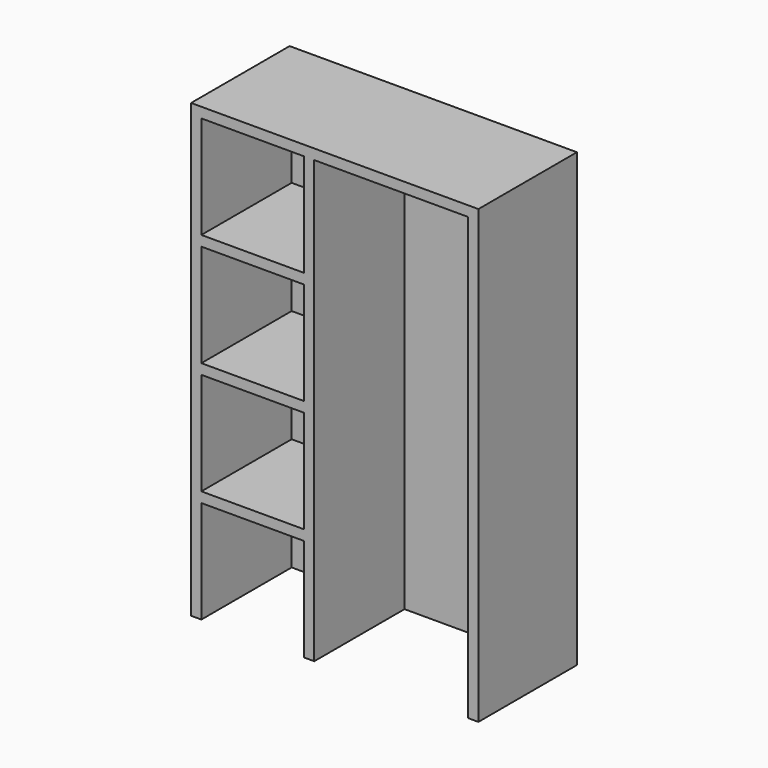
from build123d import *

# Parameters (mm, degrees)
BOX3570_W        = 750
BOX3570_H        = 550
BOX3570_DEPTH    = 2150
BOX3572_W        = 500
BOX3572_H        = 550
BOX3572_DEPTH    = 500
ARRAY290_Z_COUNT = 4
ARRAY290_Z_PITCH = 550
BOX3571_W        = 1400
BOX3571_H        = 600
BOX3571_DEPTH    = 2200


with BuildPart() as box3570:
    # Box3570 → Box3570 (new body)
    with BuildSketch(Plane(origin=(8100, -300, 0), x_dir=(1, 0, 0), z_dir=(0, 0, 1))):
        with Locations((375, 275)):
            Rectangle(BOX3570_W, BOX3570_H)
    extrude(amount=BOX3570_DEPTH)


with BuildPart() as array290:
    # Box3572 → Box3572 (new body)
    with BuildSketch(Plane(origin=(7550, -300, 0), x_dir=(1, 0, 0), z_dir=(0, 0, 1))):
        with Locations((250, 275)):
            Rectangle(BOX3572_W, BOX3572_H)
    extrude(amount=BOX3572_DEPTH)

    # Array290 Z: Array290 ×4


with BuildPart() as array290_1:
    add(array290.part)
    with Locations(*[(0, 0, i * ARRAY290_Z_PITCH) for i in range(1, ARRAY290_Z_COUNT)]):
        add(array290.part)


with BuildPart() as cut006:
    # Box3571 → Box3571 (new body)
    with BuildSketch(Plane(origin=(7500, -300, 0), x_dir=(1, 0, 0), z_dir=(0, 0, 1))):
        with Locations((700, 300)):
            Rectangle(BOX3571_W, BOX3571_H)
    extrude(amount=BOX3571_DEPTH)

    # Cut007: cut Array290
    add(array290_1.part, mode=Mode.SUBTRACT)

    # Cut006: cut Box3570
    add(box3570.part, mode=Mode.SUBTRACT)


solid = cut006.part
